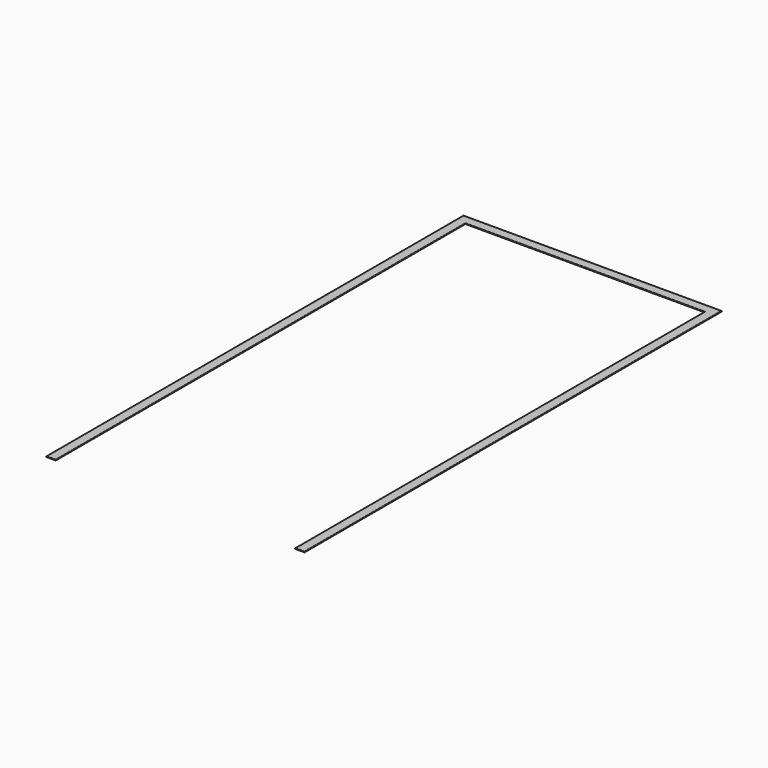
from build123d import *

# Parameters (mm, degrees)
F0_W     = 2514.6
F0_H     = 101.6
F1_DEPTH = 6.35
F2_R     = 5.08


with BuildPart() as f1:
    # F0 (on Top) → F1 (new body)
    with BuildSketch(Plane.XY):
        Polygon((-1257.3, 2743.2), (-1358.9, 2743.2), (-1358.9, -2743.2), (-1257.3, -2743.2), (-1257.3, 2641.6), align=None)
        with Locations((0, 2692.4)):
            Rectangle(F0_W, F0_H)
        Polygon((1358.9, 2743.2), (1257.3, 2743.2), (1257.3, 2641.6), (1257.3, -2743.2), (1358.9, -2743.2), align=None)
    extrude(amount=F1_DEPTH)

    # F2
    f2_edges = [f1.edges().sort_by_distance(p)[0] for p in [
        (-1308.1, -2743.2, 6.35),
        (-1358.9, 0, 6.35),
        (-1257.3, -50.8, 6.35),
        (0, 2641.6, 6.35),
        (0, 2743.2, 6.35),
        (1358.9, 0, 6.35),
        (1257.3, -50.8, 6.35),
        (1308.1, -2743.2, 6.35),
    ]]
    fillet(f2_edges, radius=F2_R)


solid = f1.part
